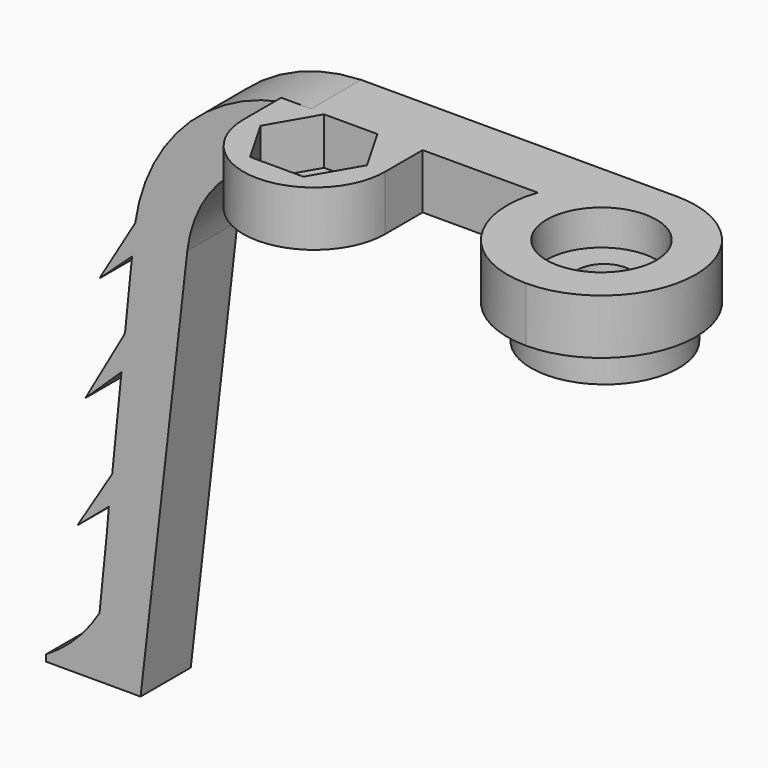
from build123d import *

# Parameters (mm, degrees)
PAD022_DEPTH             = 2
PAD023_DEPTH             = 3.5
SKETCH036_R              = 3.5
POCKET003017_DEPTH       = 2.25
SKETCH037_R              = 4.702209
PAD024_DEPTH             = 2.2
SKETCH038_R              = 1.7
POCKET003018_DEPTH       = 5
PAD027_DEPTH             = 3.5
SKETCH044_R              = 1.7
POCKET003021_DEPTH       = 5
POCKET003037_DEPTH       = 3
PAD042_DEPTH             = 4
CLONE025_PLACEMENT_ANGLE = 180


with BuildPart() as part:
    # Sketch034 → Pad022 (new body, symmetric)
    with BuildSketch(Plane.XZ):
        with BuildLine():
            Line((0, 28.012352), (20.118014, 28.012352))
            ThreePointArc((27.996705, 20.985645), (25.39647, 26.000475), (20.118014, 28.012352))
            Line((27.996705, 20.985645), (30.977077, -4.999855))
            Line((33.977077, -4.999855), (30.977077, -4.999855))
            Line((31.375086, 21.001563), (33.977077, -4.999855))
            ThreePointArc((31.375086, 21.001563), (27.724484, 28.375327), (20.118014, 31.512352))
            Line((0, 31.512352), (20.118014, 31.512352))
            Line((0, 28.012352), (0, 31.512352))
        make_face()
    extrude(amount=PAD022_DEPTH, both=True)

    # Sketch035 → Pad023 (new body)
    with BuildSketch(Plane(origin=(0, 0, 31.512352), x_dir=(-1, 0, 0), z_dir=(0, 0, 1))):
        with BuildLine():
            Line((-18, 2.000987), (0, 2.000987))
            ThreePointArc((2e-06, -10.000993), (6.00099, -4.000002), (0, 2.000987))
            ThreePointArc((-5.657903, -2), (-4.899687, -7.464818), (2e-06, -10.000993))
            Line((-18, -2), (-5.657903, -2))
            Line((-18, 2.000987), (-18, -2))
        make_face()
    extrude(amount=-PAD023_DEPTH)

    # Sketch036 → Pocket003017 (cut)
    with BuildSketch(Plane(origin=(0, 0, 31.512352), x_dir=(-1, 0, 0), z_dir=(0, 0, 1))):
        with Locations((0, -4)):
            Circle(SKETCH036_R)
    extrude(amount=-POCKET003017_DEPTH, mode=Mode.SUBTRACT)

    # Sketch037 → Pad024 (new body)
    with BuildSketch(Plane(origin=(0, 0, 28.012352), x_dir=(1, 0, 0), z_dir=(0, 0, -1))):
        with Locations((-0.089106, -3.841625)):
            Circle(SKETCH037_R)
    extrude(amount=PAD024_DEPTH)

    # Sketch038 → Pocket003018 (cut)
    with BuildSketch(Plane(origin=(0, 0, 25.812352), x_dir=(1, 0, 0), z_dir=(0, 0, -1))):
        with Locations((-0.080471, -3.899184)):
            Circle(SKETCH038_R)
    extrude(amount=-POCKET003018_DEPTH, mode=Mode.SUBTRACT)

    # Sketch043 → Pad027 (new body)
    with BuildSketch(Plane(origin=(0, 0, 31.512352), x_dir=(-1, 0, 0), z_dir=(0, 0, 1))):
        with BuildLine():
            Line((-22.021201, -1.987049), (-22.021201, -4.986919))
            ThreePointArc((-22.021201, -4.986919), (-17.510002, -9.511218), (-12.998803, -4.986919))
            Line((-12.998803, -4.986919), (-12.998803, -1.987049))
            Line((-22.021201, -1.987049), (-12.998803, -1.987049))
        make_face()
    extrude(amount=-PAD027_DEPTH)

    # Sketch044 → Pocket003021 (cut)
    with BuildSketch(Plane(origin=(0, 0, 31.512352), x_dir=(-1, 0, 0), z_dir=(0, 0, 1))):
        with Locations((-17.491917, -5)):
            Circle(SKETCH044_R)
    extrude(amount=-POCKET003021_DEPTH, mode=Mode.SUBTRACT)

    # Sketch071 → Pocket003037 (cut)
    with BuildSketch(Plane(origin=(0, 0, 31.512352), x_dir=(-1, 0, 0), z_dir=(0, 0, 1))):
        Polygon((-14.138998, -5.003928), (-15.835596, -2.057479), (-19.235593, -2.053552), (-20.938994, -4.996072), (-19.242396, -7.942521), (-15.842399, -7.946448), align=None)
    extrude(amount=-POCKET003037_DEPTH, mode=Mode.SUBTRACT)

    # Sketch072 → Pad042 (new body)
    with BuildSketch(Plane.XZ.offset(2)):
        with BuildLine():
            Line((27, 28.536497), (32.513573, -5))
            Line((32.513573, -5), (37.000002, -5))
            Line((37.000002, -5), (37.000002, -4.583553))
            ThreePointArc((33.505627, -1), (35.019116, -3.019659), (37.000002, -4.583553))
            Line((33, 5), (33.505627, -1))
            Line((35, 3.304739), (33, 5))
            Line((32.728943, 7), (35, 3.304739))
            Line((32, 13), (32.728943, 7))
            Line((34.496559, 10.608005), (32, 13))
            Line((32, 15), (34.496559, 10.608005))
            Line((31, 20), (32, 15))
            Line((33.606815, 17.606869), (31, 20))
            Line((31, 22), (33.606815, 17.606869))
            Line((27, 28.536497), (31, 22))
        make_face()
    extrude(amount=-PAD042_DEPTH)


with BuildPart() as part_1:
    # Clone025 placement: moved
    add(part.part.moved(Location((-21.5, 84, -13))).rotate(Axis((-21.5, 84, -13), (0, 0, 1)), CLONE025_PLACEMENT_ANGLE))


solid = part_1.part
